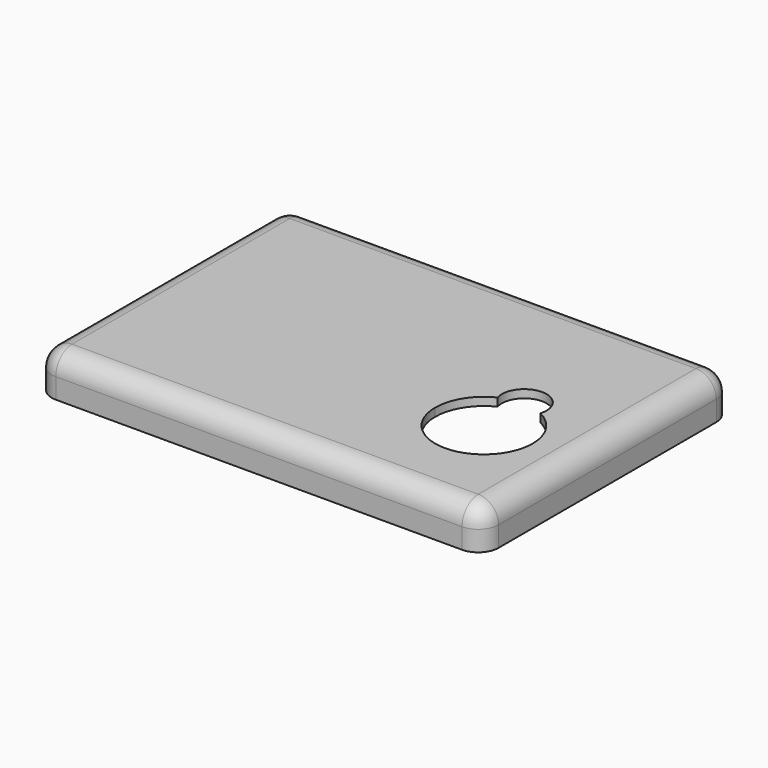
from build123d import *

# Parameters (mm, degrees)
F0_W     = 55
F0_H     = 38.5
F1_DEPTH = 5
F2_W     = 51
F2_H     = 34.5
F3_DEPTH = 4
F2_W_2   = 53
F2_H_2   = 36.5
F4_DEPTH = 2
F5_R     = 2.5
F6_R     = 2.5


with BuildPart() as f1:
    # F0 (on Top) → F1 (new body)
    with BuildSketch(Plane.XY):
        Rectangle(F0_W, F0_H)
        with BuildLine():
            ThreePointArc((22.5, -5.25), (16.5, -11.25), (10.5, -5.25))
            ThreePointArc((10.5, -5.25), (11.4120636058, -2.0699208738), (13.8709677497, 0.1433467742))
            ThreePointArc((13.8709677497, 0.1433467742), (16.0921634448, 3.6695899221), (19.25, 0.95))
            ThreePointArc((19.25, 0.95), (19.2195899221, 0.5421634448), (19.1290322503, 0.1433467742))
            ThreePointArc((19.1290322503, 0.1433467742), (21.5879363942, -2.0699208738), (22.5, -5.25))
        make_face(mode=Mode.SUBTRACT)
    extrude(amount=-F1_DEPTH)

    # F2 (on face) → F3 (cut)
    with BuildSketch(Plane(origin=(0, 0, -5), x_dir=(1, 0, 0), z_dir=(0, 0, -1))):
        Rectangle(F2_W, F2_H)
        with BuildLine():
            ThreePointArc((13.8709677497, -0.1433467742), (11.4120636058, 2.0699208738), (10.5, 5.25))
            ThreePointArc((10.5, 5.25), (19.6800791262, 10.3379363942), (19.1290322503, -0.1433467742))
            ThreePointArc((19.1290322503, -0.1433467742), (19.2195899221, -0.5421634448), (19.25, -0.95))
            ThreePointArc((19.25, -0.95), (16.0921634448, -3.6695899221), (13.8709677497, -0.1433467742))
        make_face(mode=Mode.SUBTRACT)
    extrude(amount=-F3_DEPTH, mode=Mode.SUBTRACT)

    # F2 (on face) → F4 (cut)
    with BuildSketch(Plane(origin=(0, 0, -5), x_dir=(1, 0, 0), z_dir=(0, 0, -1))):
        Rectangle(F2_W_2, F2_H_2)
        Rectangle(F2_W, F2_H, mode=Mode.SUBTRACT)
    extrude(amount=-F4_DEPTH, mode=Mode.SUBTRACT)

    # F5
    f5_edges = [f1.edges().sort_by_distance(p)[0] for p in [
        (-27.5, 19.25, -2.5),
        (-26.5, 18.25, -4),
        (-25.5, 17.25, -2),
        (-27.5, -19.25, -2.5),
        (-26.5, -18.25, -4),
        (-25.5, -17.25, -2),
        (27.5, -19.25, -2.5),
        (27.5, 19.25, -2.5),
        (26.5, -18.25, -4),
        (25.5, -17.25, -2),
        (26.5, 18.25, -4),
        (25.5, 17.25, -2),
    ]]
    fillet(f5_edges, radius=F5_R)

    # F6
    f6_edges = [f1.edges().sort_by_distance(p)[0] for p in [
        (-27.5, 0, 0),
    ]]
    fillet(f6_edges, radius=F6_R)


solid = f1.part
